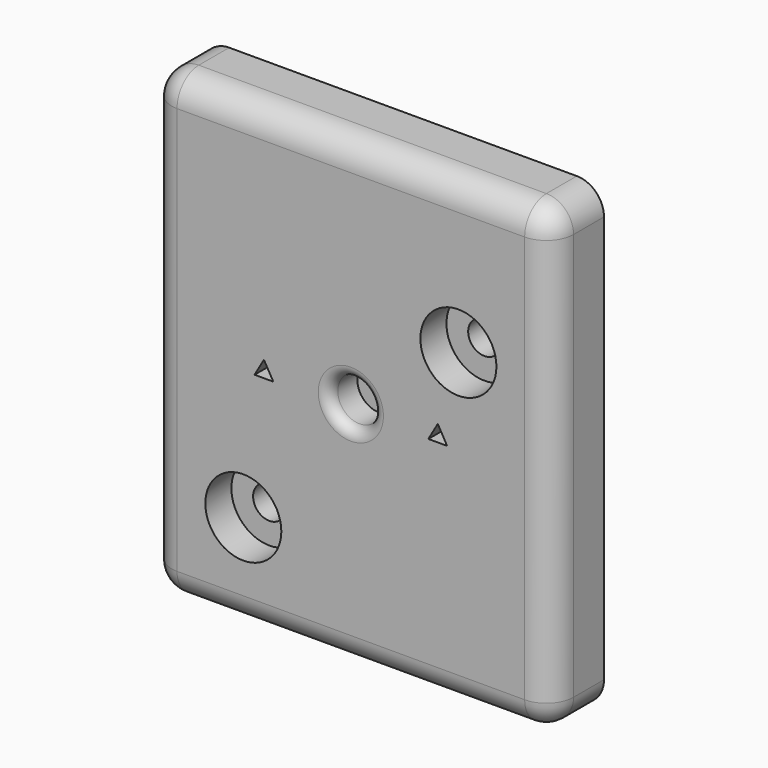
from build123d import *

# Parameters (mm, degrees)
F0_W     = 74
F0_H     = 85
F0_R     = 3
F0_R_2   = 4
F1_DEPTH = 12
F2_R     = 7
F3_DEPTH = 6
F4_W     = 2
F4_H     = 6
F5_DEPTH = 2
F6_R     = 9
F7_DEPTH = 5
F8_R     = 4
F9_DEPTH = 0.5
F10_R    = 5
F11_R    = 2


with BuildPart() as f1:
    # F0 (on Front) → F1 (new body)
    with BuildSketch(Plane.XZ):
        Rectangle(F0_W, F0_H)
        with Locations((-19.7989898732, -24.7989898732)):
            Circle(F0_R, mode=Mode.SUBTRACT)
        Polygon((-17.7320508076, -1), (-16, 2), (-14.2679491924, -1), align=None, mode=Mode.SUBTRACT)
        Circle(F0_R_2, mode=Mode.SUBTRACT)
        Polygon((14.2679491924, -1), (16, 2), (17.7320508076, -1), align=None, mode=Mode.SUBTRACT)
        with Locations((19.7989898732, 14.7989898732)):
            Circle(F0_R, mode=Mode.SUBTRACT)
    extrude(amount=F1_DEPTH)

    # F2 (on face) → F3 (cut)
    with BuildSketch(Plane.XZ.offset(12)):
        with Locations((19.7989898732, 14.7989898732)):
            Circle(F2_R)
        with Locations((-19.7989898732, -24.7989898732)):
            Circle(F2_R)
    extrude(amount=-F3_DEPTH, mode=Mode.SUBTRACT)

    # F4 (on Right) → F5 (cut, symmetric)
    with BuildSketch(Plane.YZ):
        with Locations((-1, -39.5)):
            Rectangle(F4_W, F4_H)
    extrude(amount=F5_DEPTH, both=True, mode=Mode.SUBTRACT)

    # F6 (on face) → F7 (cut)
    with BuildSketch(Plane(origin=(0, 0, 0), x_dir=(-1, 0, 0), z_dir=(0, 1, 0))):
        Circle(F6_R)
    extrude(amount=-F7_DEPTH, mode=Mode.SUBTRACT)

    # F8 (on face) → F9 (join)
    with BuildSketch(Plane(origin=(0, -5, 0), x_dir=(-1, 0, 0), z_dir=(0, 1, 0))):
        Circle(F8_R)
    extrude(amount=-F9_DEPTH)

    # F10
    f10_edges = [f1.edges().sort_by_distance(p)[0] for p in [
        (0, -12, 42.5),
        (-37, -12, 0),
        (37, -12, 0),
        (0, -12, -42.5),
        (37, -6, -42.5),
        (37, -6, 42.5),
        (-37, -6, 42.5),
        (-37, -6, -42.5),
    ]]
    fillet(f10_edges, radius=F10_R)

    # F11
    f11_edges = [f1.edges().sort_by_distance(p)[0] for p in [
        (9, 0, 0),
        (-4, -12, 0),
    ]]
    fillet(f11_edges, radius=F11_R)


solid = f1.part
